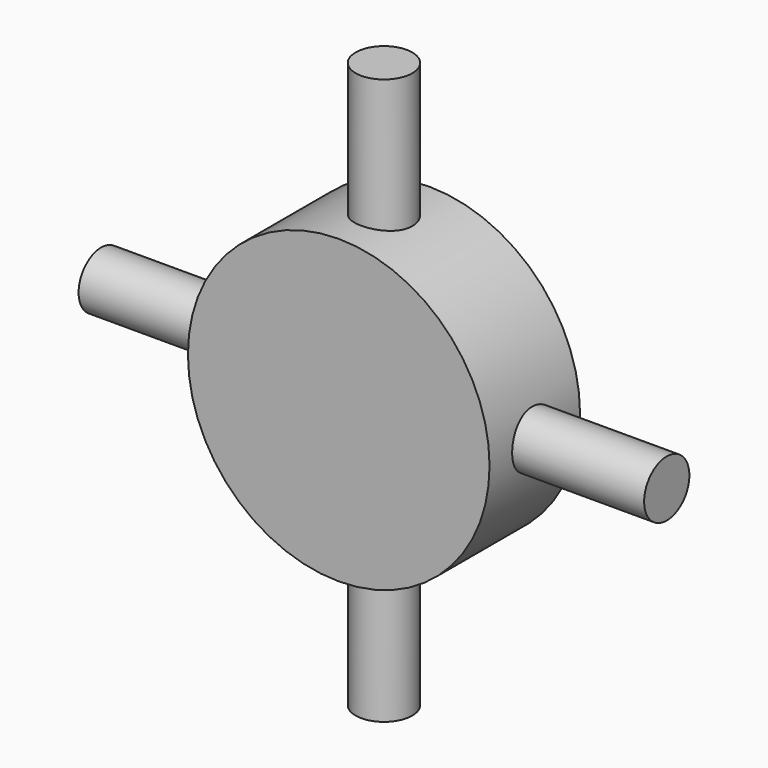
from build123d import *

# Parameters (mm, degrees)
F0_R     = 10.16
F1_DEPTH = 3.81
F2_R     = 1.905
F3_DEPTH = 19.05
F4_R     = 1.905
F5_DEPTH = 19.05


with BuildPart() as f1:
    # F0 (on Front) → F1 (new body, symmetric)
    with BuildSketch(Plane.XZ):
        Circle(F0_R)
    extrude(amount=F1_DEPTH, both=True)

    # F2 (on Top) → F3 (join, symmetric)
    with BuildSketch(Plane.XY):
        Circle(F2_R)
    extrude(amount=F3_DEPTH, both=True)

    # F4 (on Right) → F5 (join, symmetric)
    with BuildSketch(Plane.YZ):
        Circle(F4_R)
    extrude(amount=F5_DEPTH, both=True)


solid = f1.part
